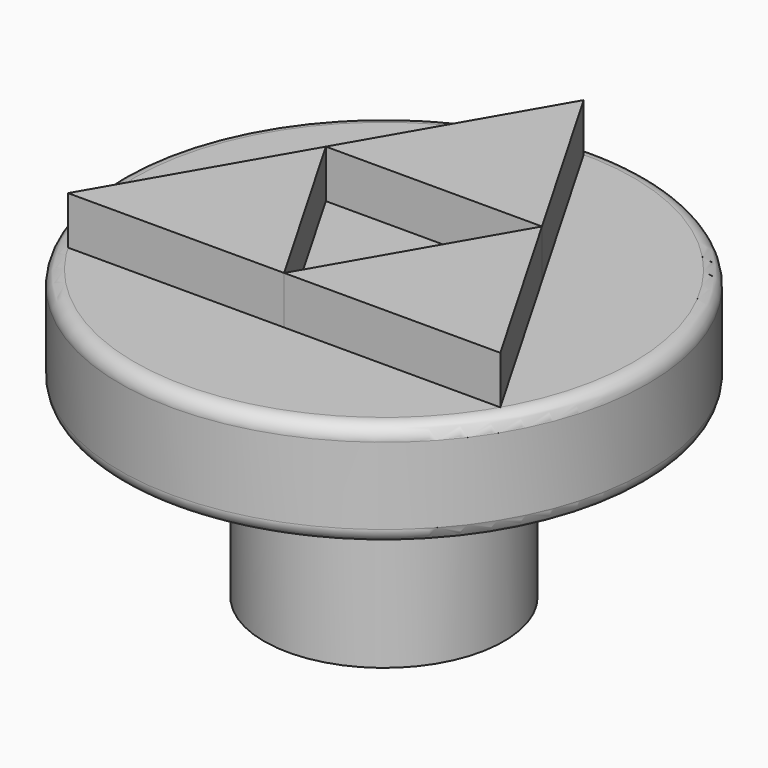
from build123d import *

# Parameters (mm, degrees)
F3_DEPTH      = 1
F3_DEPTH_BACK = 0.5


with BuildPart() as f1:
    # F0 (on Front) → F1 (revolve)
    with BuildSketch(Plane.XZ):
        Polygon((-2.5, 0), (0, 0), (0, 6), (-2.5, 6), (-2.5, 3.8), align=None)
        with BuildLine():
            Line((-5.2, 3.8), (-2.5, 3.8))
            Line((-2.5, 3.8), (-2.5, 6))
            Line((-2.5, 6), (-5.2, 6))
            ThreePointArc((-5.2, 6), (-5.412132, 5.912132), (-5.5, 5.7))
            Line((-5.5, 5.7), (-5.5, 4.1))
            ThreePointArc((-5.5, 4.1), (-5.412132, 3.887868), (-5.2, 3.8))
        make_face()
    revolve(axis=Axis((0, 0, 3), (0, 0, 1)))


with BuildPart() as f3:
    # F2 (on face) → F3 (new body, two sides)
    with BuildSketch(Plane.XY.offset(6)) as f3_sk:
        Polygon((-4.503332, -2.6), (0, -2.6), (-2.251666, 1.3), align=None)
        Polygon((2.251666, 1.3), (0, -2.6), (4.503332, -2.6), align=None)
        Polygon((0, 5.2), (-2.251666, 1.3), (2.251666, 1.3), align=None)
        Polygon((0, 5.2), (-2.251666, 1.3), (2.251666, 1.3), align=None)
        Polygon((2.251666, 1.3), (0, -2.6), (4.503332, -2.6), align=None)
        Polygon((-4.503332, -2.6), (0, -2.6), (-2.251666, 1.3), align=None)
    extrude(amount=F3_DEPTH)
    extrude(f3_sk.sketch, amount=-F3_DEPTH_BACK)


solid = Compound([f1.part, f3.part])
